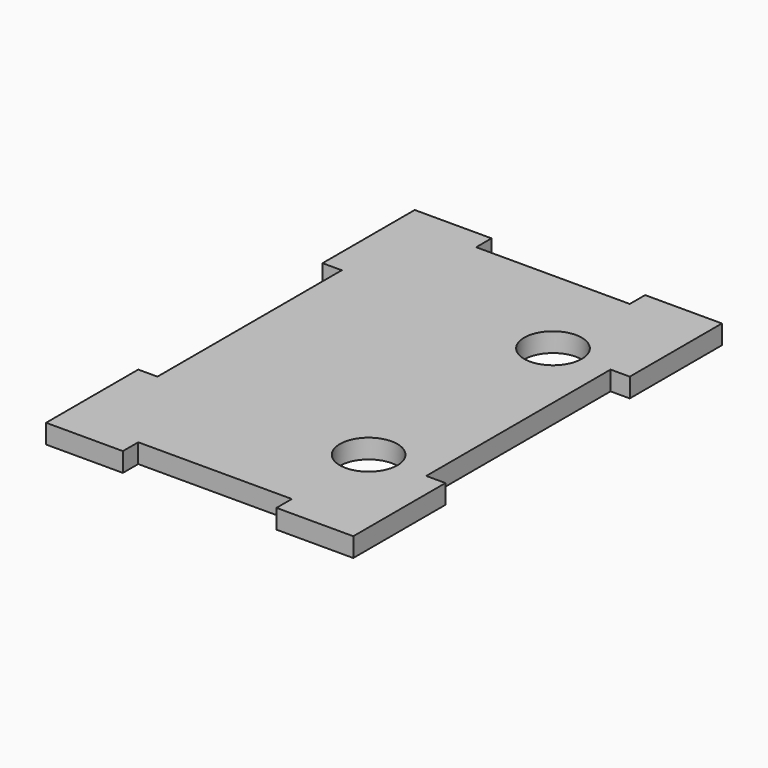
from build123d import *

# Parameters (mm, degrees)
F0_R     = 4.7625
F1_DEPTH = 3.175


with BuildPart() as f1:
    # F0 (on Top) → F1 (new body)
    with BuildSketch(Plane.XY):
        Polygon((25.4, 19.05), (25.4, 38.1), (12.7, 38.1), (12.7, 34.925), (-12.7, 34.925), (-12.7, 38.1), (-25.4, 38.1), (-25.4, 19.05), (-22.225, 19.05), (-22.225, -19.05), (-25.4, -19.05), (-25.4, -38.1), (-12.7, -38.1), (-12.7, -34.925), (12.7, -34.925), (12.7, -38.1), (25.4, -38.1), (25.4, -19.05), (22.225, -19.05), (22.225, 19.05), align=None)
        with Locations((12.7, -19.05)):
            Circle(F0_R, mode=Mode.SUBTRACT)
        with Locations((12.7, 19.05)):
            Circle(F0_R, mode=Mode.SUBTRACT)
    extrude(amount=F1_DEPTH)


solid = f1.part
